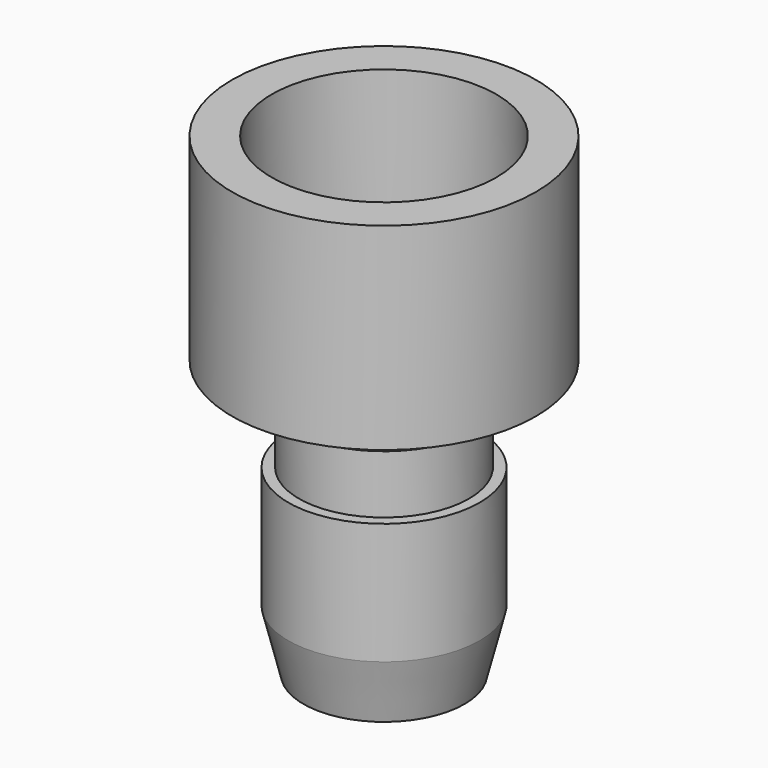
from build123d import *

# Parameters (mm, degrees)
F0_R      = 12.7
F1_DEPTH  = 16.51
F2_R      = 9.398
F3_DEPTH  = 10.16
F4_R      = 5.715
F5_DEPTH  = 6.35
F6_R      = 8.001
F7_DEPTH  = 2.54
F8_R      = 7.112
F9_DEPTH  = 5.334
F10_R     = 8.001
F11_DEPTH = 15.24
F12_SIZE2 = 5.08
F12_SIZE  = 1.27
F13_R     = 5.08
F14_DEPTH = 25.4


with BuildPart() as f1:
    # F0 (on Top) → F1 (new body)
    with BuildSketch(Plane.XY):
        with Locations((-47.5551895797, -9.232012555)):
            Circle(F0_R)
    extrude(amount=-F1_DEPTH)

    # F2 (on face) → F3 (cut)
    with BuildSketch(Plane.XY):
        with Locations((-47.5551895797, -9.232012555)):
            Circle(F2_R)
    extrude(amount=-F3_DEPTH, mode=Mode.SUBTRACT)

    # F4 (on face) → F5 (cut)
    with BuildSketch(Plane.XY.offset(-10.16)):
        with Locations((-47.5551895797, -9.232012555)):
            Circle(F4_R)
    extrude(amount=-F5_DEPTH, mode=Mode.SUBTRACT)

    # F6 (on face) → F7 (join)
    with BuildSketch(Plane(origin=(0, 0, -16.51), x_dir=(1, 0, 0), z_dir=(0, 0, -1))):
        with Locations((-47.5551895797, 9.232012555)):
            Circle(F6_R)
    extrude(amount=F7_DEPTH)

    # F8 (on face) → F9 (join)
    with BuildSketch(Plane(origin=(0, 0, -19.05), x_dir=(1, 0, 0), z_dir=(0, 0, -1))):
        with Locations((-47.5551895797, 9.232012555)):
            Circle(F8_R)
    extrude(amount=F9_DEPTH)

    # F10 (on face) → F11 (join)
    with BuildSketch(Plane(origin=(0, 0, -24.384), x_dir=(1, 0, 0), z_dir=(0, 0, -1))):
        with Locations((-47.5551895797, 9.232012555)):
            Circle(F10_R)
    extrude(amount=F11_DEPTH)

    # F12
    f12_edges = [f1.edges().sort_by_distance(p)[0] for p in [
        (-55.55619, -9.232013, -39.624),
    ]]
    f12_side = f1.faces().sort_by_distance((-47.55519, -9.232013, -39.624))[0]
    chamfer(f12_edges, length=F12_SIZE, length2=F12_SIZE2, reference=f12_side)

    # F13 (on face) → F14 (cut)
    with BuildSketch(Plane(origin=(0, 0, -39.624), x_dir=(1, 0, 0), z_dir=(0, 0, -1))):
        with Locations((-47.5551895797, 9.232012555)):
            Circle(F13_R)
    extrude(amount=-F14_DEPTH, mode=Mode.SUBTRACT)


solid = f1.part
